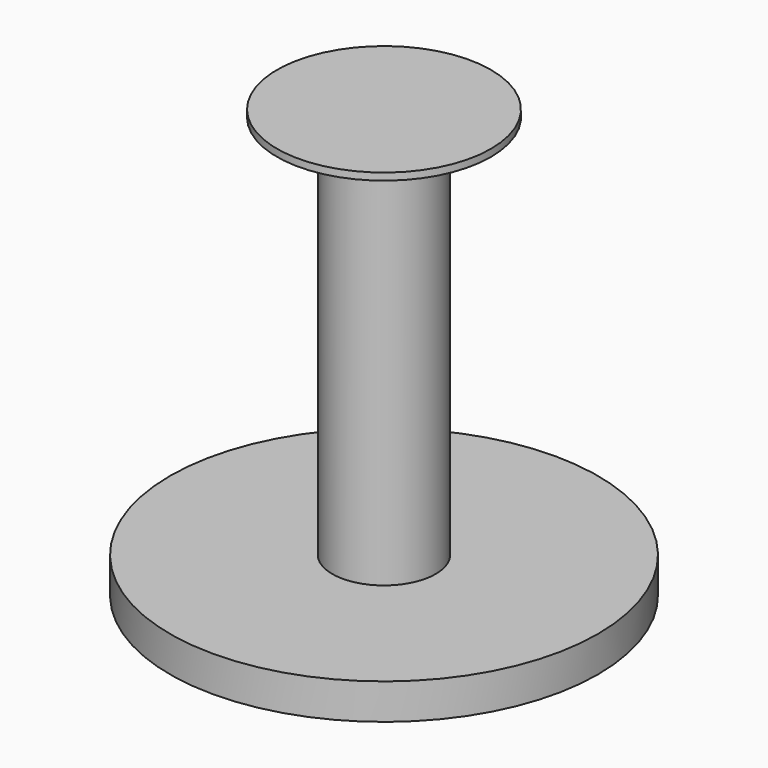
from build123d import *

# Parameters (mm, degrees)
F0_R     = 0.725
F1_DEPTH = 6
F2_R     = 1.5
F3_DEPTH = 0.1
F4_R     = 3
F5_DEPTH = 0.5


with BuildPart() as f1:
    # F0 (on Top) → F1 (new body)
    with BuildSketch(Plane.XY):
        Circle(F0_R)
    extrude(amount=F1_DEPTH)

    # F2 (on face) → F3 (join)
    with BuildSketch(Plane.XY.offset(6)):
        Circle(F2_R)
    extrude(amount=-F3_DEPTH)

    # F4 (on face) → F5 (join)
    with BuildSketch(Plane(origin=(0, 0, 0), x_dir=(1, 0, 0), z_dir=(0, 0, -1))):
        Circle(F4_R)
    extrude(amount=-F5_DEPTH)


solid = f1.part
